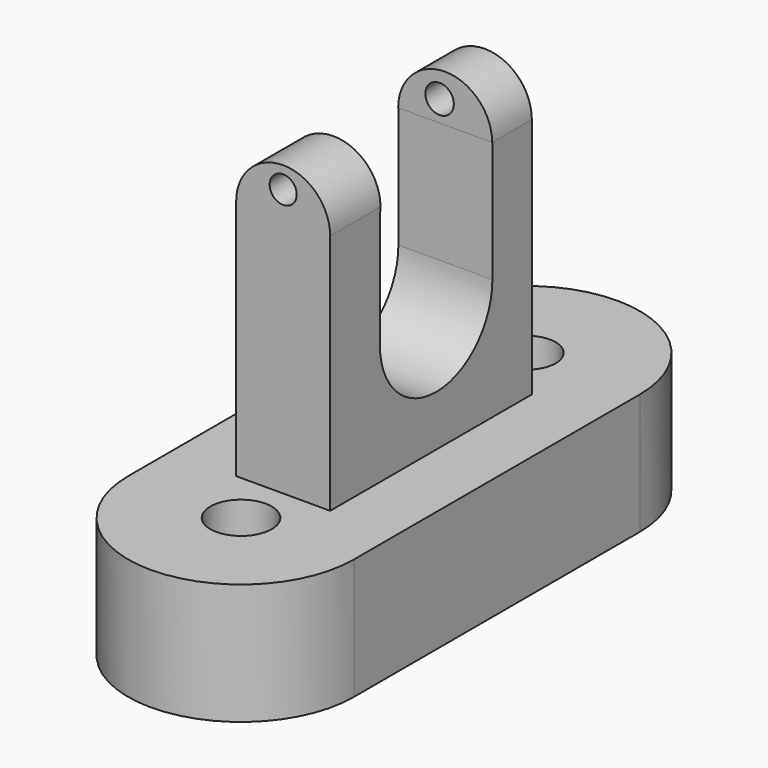
from build123d import *

# Parameters (mm, degrees)
F0_R      = 6.445170834
F0_R_2    = 6.017003406
F1_DEPTH  = 25.4
F2_W      = 19.7259690613
F2_H      = 52.9098398983
F3_DEPTH  = 25.4
F5_W      = 19.7259690613
F5_H      = 13.0423298106
F6_DEPTH  = 25.4
F4_W      = 19.7259690613
F4_H      = 10.3523302823
F7_DEPTH  = 25.4
F8_R      = 9.8629845306
F9_DEPTH  = 13.208
F12_DEPTH = 10.414
F13_R     = 2.9880803611
F14_DEPTH = 25.4
F15_R     = 2.8379061559
F16_DEPTH = 25.4
F18_DEPTH = 50.8


with BuildPart() as f1:
    # F0 (on Top) → F1 (new body)
    with BuildSketch(Plane.XY):
        with BuildLine():
            Line((23.6895978451, -37.5162102282), (23.6895978451, 37.5162102282))
            ThreePointArc((23.6895978451, 37.5162102282), (0, 61.2058080733), (-23.6895978451, 37.5162102282))
            Line((-23.6895978451, 37.5162102282), (-23.6895978451, -37.5162102282))
            ThreePointArc((-23.6895978451, -37.5162102282), (0, -61.2058080733), (23.6895978451, -37.5162102282))
        make_face()
        with Locations((0, -37.5162102282)):
            Circle(F0_R, mode=Mode.SUBTRACT)
        with Locations((0, 37.5162102282)):
            Circle(F0_R_2, mode=Mode.SUBTRACT)
    extrude(amount=F1_DEPTH)

    # F2 (on face) → F3 (join)
    with BuildSketch(Plane.XY.offset(25.4)):
        Rectangle(F2_W, F2_H)
    extrude(amount=F3_DEPTH)

    # F5 (on face) → F6 (join)
    with BuildSketch(Plane.XY.offset(50.8)):
        with Locations((0, -19.9337550439)):
            Rectangle(F5_W, F5_H)
    extrude(amount=F6_DEPTH)

    # F4 (on face) → F7 (join)
    with BuildSketch(Plane.XY.offset(50.8)):
        with Locations((0, 21.278754808)):
            Rectangle(F4_W, F4_H)
    extrude(amount=F7_DEPTH)

    # F8 (on face) → F9 (join)
    with BuildSketch(Plane.XZ.offset(26.4549199492)):
        with Locations((0, 76.2)):
            Circle(F8_R)
    extrude(amount=-F9_DEPTH)

    # F11 (on face) → F12 (join)
    with BuildSketch(Plane(origin=(0, 26.4549199492, 0), x_dir=(-1, 0, 0), z_dir=(0, 1, 0))):
        with BuildLine():
            Line((-9.8629845306, 76.2), (9.8629845306, 76.2))
            ThreePointArc((9.8629845306, 76.2), (0, 86.0629845306), (-9.8629845306, 76.2))
        make_face()
    extrude(amount=-F12_DEPTH)

    # F13 (on face) → F14 (cut)
    with BuildSketch(Plane.XZ.offset(-16.0409199492)):
        with Locations((-1.1676928261, 80.6610658765)):
            Circle(F13_R)
    extrude(amount=-F14_DEPTH, mode=Mode.SUBTRACT)

    # F15 (on face) → F16 (cut)
    with BuildSketch(Plane(origin=(0, -13.2469199492, 0), x_dir=(-1, 0, 0), z_dir=(0, 1, 0))):
        with Locations((0, 81.546805799)):
            Circle(F15_R)
    extrude(amount=-F16_DEPTH, mode=Mode.SUBTRACT)

    # F17 (on face) → F18 (cut)
    with BuildSketch(Plane(origin=(-9.8629845306, 0, 0), x_dir=(0, -1, 0), z_dir=(-1, 0, 0))):
        with BuildLine():
            ThreePointArc((-16.1025896668, 50.8), (-1.3449997641, 36.0424100973), (13.4125901386, 50.8))
            Line((13.4125901386, 50.8), (-16.1025896668, 50.8))
        make_face()
    extrude(amount=-F18_DEPTH, mode=Mode.SUBTRACT)


solid = f1.part
